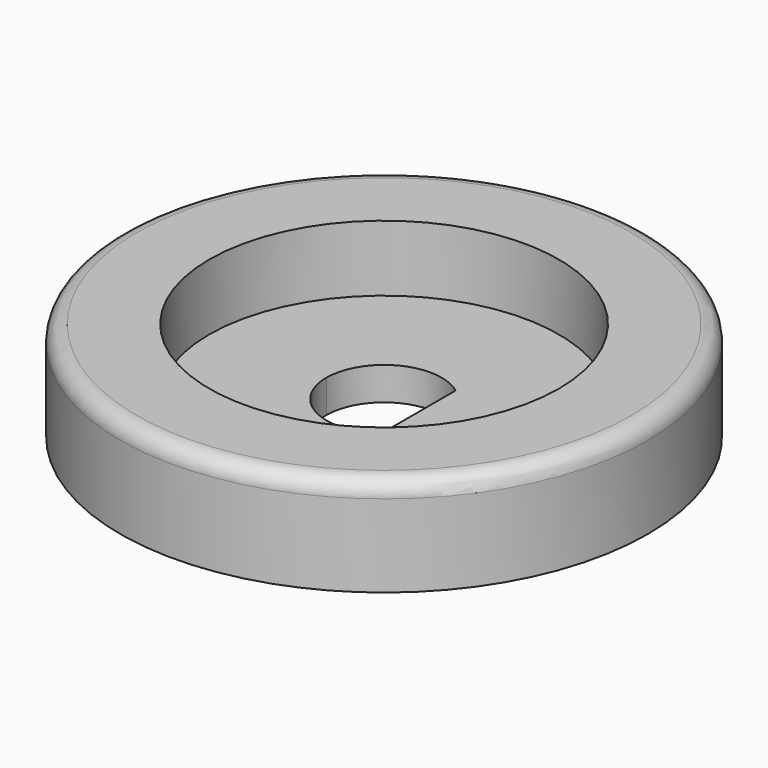
from build123d import *

# Parameters (mm, degrees)
F0_R     = 5.3
F1_DEPTH = 1
F0_R_2   = 8
F2_DEPTH = 3
F3_R     = 0.5


with BuildPart() as f1:
    # F0 (on Top) → F1 (new body)
    with BuildSketch(Plane.XY):
        Circle(F0_R)
        with BuildLine():
            ThreePointArc((1.05, 1.4), (1.5652475842, 0.7826237921), (1.75, 0))
            ThreePointArc((1.75, 0), (1.5652475842, -0.7826237921), (1.05, -1.4))
            ThreePointArc((1.05, -1.4), (-0.7826237921, -1.5652475842), (-1.75, 0))
            ThreePointArc((-1.75, 0), (-0.7826237921, 1.5652475842), (1.05, 1.4))
        make_face(mode=Mode.SUBTRACT)
        with BuildLine():
            ThreePointArc((1.05, -1.4), (1.5652475842, -0.7826237921), (1.75, 0))
            ThreePointArc((1.75, 0), (1.5652475842, 0.7826237921), (1.05, 1.4))
            Line((1.05, 1.4), (1.05, 0))
            Line((1.05, 0), (1.05, -1.4))
        make_face()
    extrude(amount=F1_DEPTH)

    # F0 (on Top) → F2 (join)
    with BuildSketch(Plane.XY):
        Circle(F0_R_2)
        Circle(F0_R, mode=Mode.SUBTRACT)
    extrude(amount=F2_DEPTH)

    # F3
    f3_edges = [f1.edges().sort_by_distance(p)[0] for p in [
        (-8, 0, 3),
    ]]
    fillet(f3_edges, radius=F3_R)


solid = f1.part
